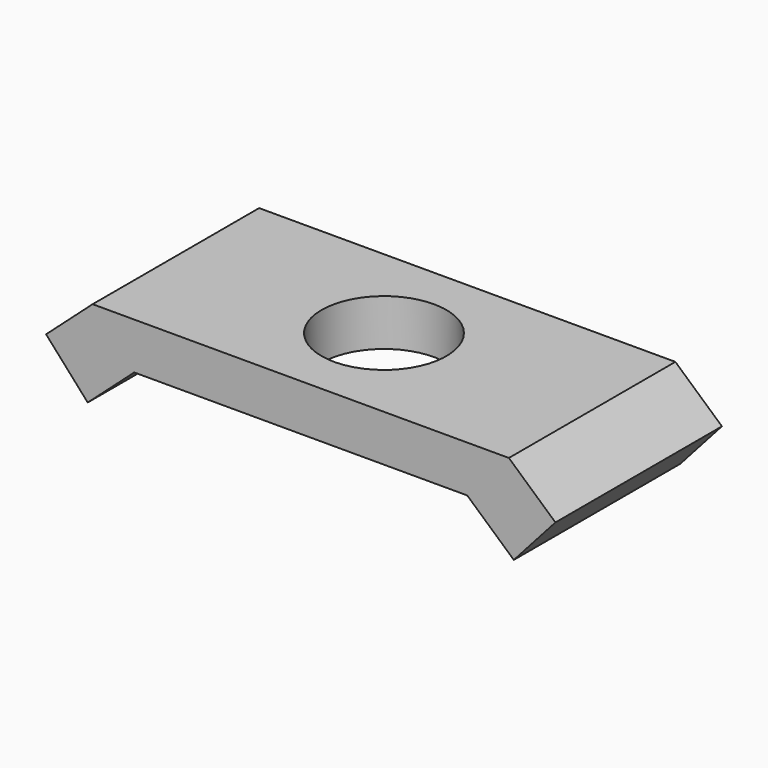
from build123d import *

# Parameters (mm, degrees)
F1_DEPTH = 25.4
F3_D     = 15.24


with BuildPart() as f1:
    # F0 (on Front) → F1 (new body)
    with BuildSketch(Plane.XZ):
        Polygon((-31.079613, 5.679613), (-25.999613, 0), (-20.32, 5.08), (0, 5.08), (20.32, 5.08), (25.999613, 0), (31.079613, 5.679613), (25.4, 10.759613), (0, 10.759613), (-25.4, 10.759613), align=None)
    extrude(amount=F1_DEPTH)

    # F3 (through all)
    with Locations(Plane.XY.offset(10.759613)):
        with Locations((0, -12.7)):
            Hole(F3_D / 2)


solid = f1.part
